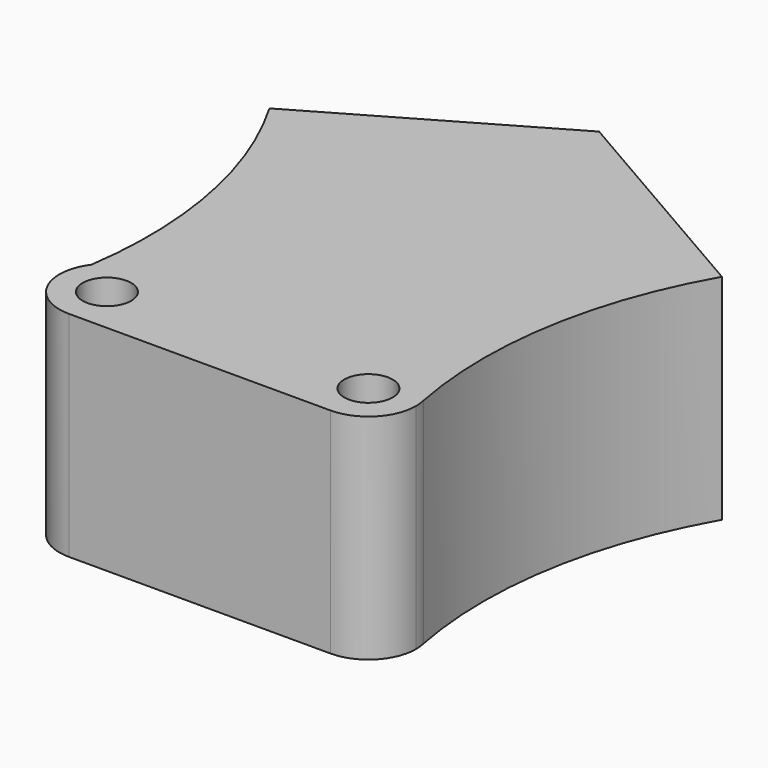
from build123d import *

# Parameters (mm, degrees)
F0_R     = 5.1
F1_DEPTH = 45
F2_DEPTH = 2.5


with BuildPart() as f1:
    # F0 (on Top) → F1 (new body)
    with BuildSketch(Plane.XY):
        with BuildLine():
            Line((47.999931, -27.712773), (0, 0))
            Line((0, 0), (-47.425757, -27.381273))
            ThreePointArc((-47.425757, -27.381273), (-36.236956, -57.202053), (-35.533555, -89.045002))
            ThreePointArc((-35.533555, -89.045002), (-24.364362, -85.504329), (-17.5, -95))
            ThreePointArc((-17.5, -95), (-20.428932, -102.071068), (-27.5, -105))
            Line((-27.5, -105), (27.5, -105))
            ThreePointArc((27.5, -105), (19.686236, -88.7594), (37.252515, -92.789018))
            ThreePointArc((37.252515, -92.789018), (36.797234, -59.288231), (47.999931, -27.712773))
        make_face()
        with BuildLine():
            ThreePointArc((-17.5, -95), (-24.364362, -85.504329), (-35.533555, -89.045002))
            ThreePointArc((-35.533555, -89.045002), (-36.431685, -99.497223), (-27.5, -105))
            ThreePointArc((-27.5, -105), (-20.428932, -102.071068), (-17.5, -95))
        make_face()
        with BuildLine():
            ThreePointArc((-22.4, -95), (-23.893755, -98.606245), (-27.5, -100.1))
            ThreePointArc((-27.5, -100.1), (-31.106245, -91.393755), (-22.4, -95))
        make_face(mode=Mode.SUBTRACT)
        with BuildLine():
            ThreePointArc((37.5, -95), (37.437936, -93.887605), (37.252515, -92.789018))
            ThreePointArc((37.252515, -92.789018), (19.686236, -88.7594), (27.5, -105))
            ThreePointArc((27.5, -105), (34.571068, -102.071068), (37.5, -95))
        make_face()
        with Locations((27.5, -95)):
            Circle(F0_R, mode=Mode.SUBTRACT)
    extrude(amount=F1_DEPTH)

    # F0 (on Top) → F2 (join)
    with BuildSketch(Plane.XY):
        with Locations((27.5, -95)):
            Circle(F0_R)
        with BuildLine():
            ThreePointArc((-22.4, -95), (-31.106245, -91.393755), (-27.5, -100.1))
            ThreePointArc((-27.5, -100.1), (-23.893755, -98.606245), (-22.4, -95))
        make_face()
    extrude(amount=F2_DEPTH)


solid = f1.part
